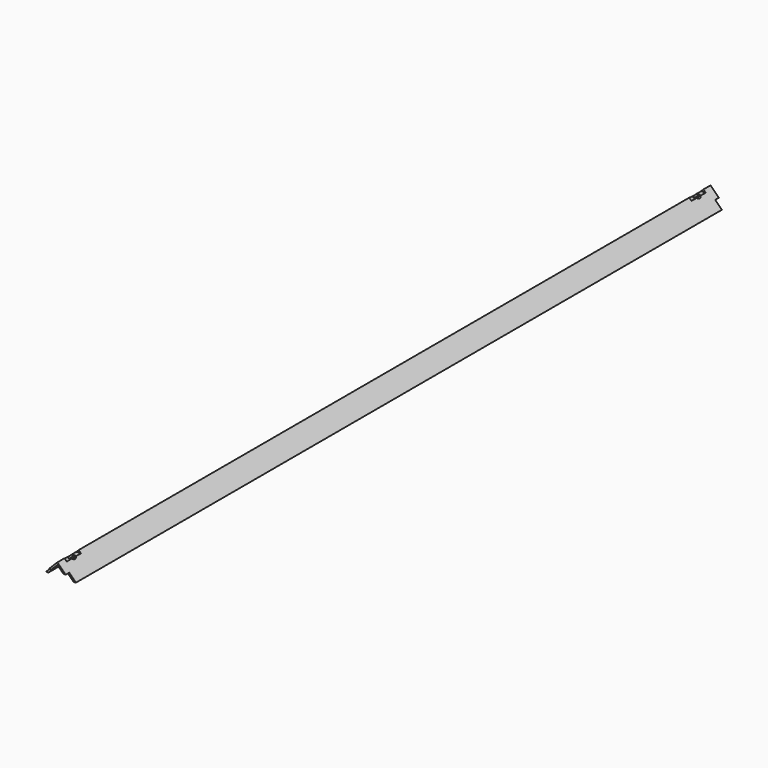
from build123d import *

# Parameters (mm, degrees)
F1_DEPTH = 584.2
F3_W     = 25.4
F3_H     = 3.175
F3_W_2   = 6.35
F3_H_2   = 9.525
F4_DEPTH = 68.58
F6_D     = 9.525


with BuildPart() as f1:
    # F0 (on Front) → F1 (new body, symmetric)
    with BuildSketch(Plane.XZ):
        Polygon((17.960512, 0), (21.328108, 0), (0, 21.328108), (-21.328108, 0), (-17.960512, 0), (0, 17.960512), align=None)
    extrude(amount=F1_DEPTH, both=True)

    # F3 (on offset) → F4 (cut)
    with BuildSketch(Plane.YZ.offset(37.592)):
        with Locations((-558.8, 19.740608)):
            Rectangle(F3_W, F3_H)
        with Locations((558.8, 19.740608)):
            Rectangle(F3_W, F3_H)
        with Locations((581.025, 4.7625)):
            Rectangle(F3_W_2, F3_H_2)
        with Locations((-581.025, 4.7625)):
            Rectangle(F3_W_2, F3_H_2)
    extrude(amount=-F4_DEPTH, mode=Mode.SUBTRACT)

    # F6 (through all)
    with Locations(Plane.XY.offset(18.153108)):
        with Locations((0, -558.8), (0, 558.8)):
            Hole(F6_D / 2)


solid = f1.part
